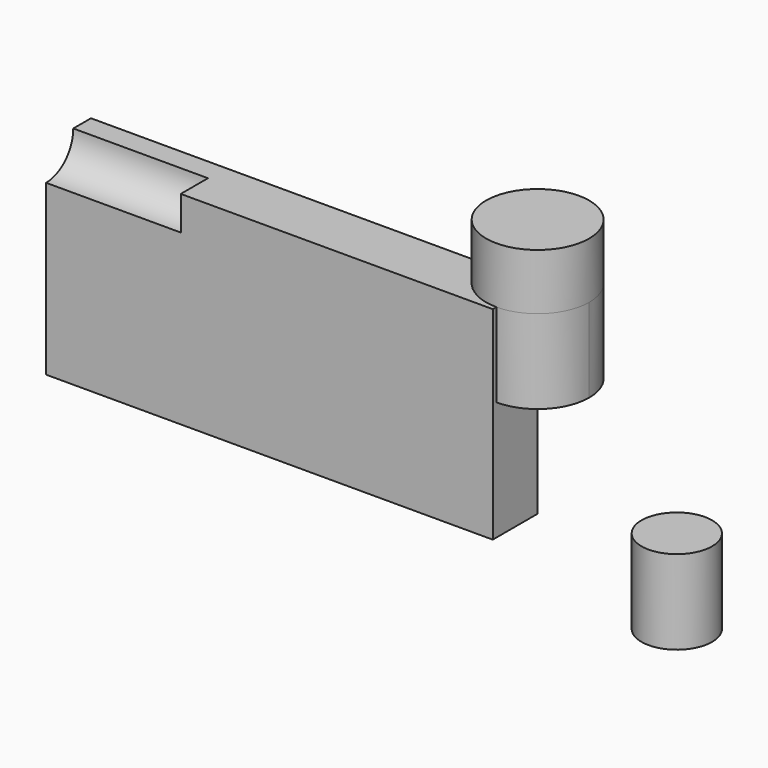
from build123d import *

# Parameters (mm, degrees)
F0_W          = 199
F0_H          = 90.409258
F1_DEPTH      = 25
F3_R          = 15.148431
F4_DEPTH      = 60
F2_R          = 22.972999
F5_DEPTH      = 25
F6_DEPTH      = 25
F6_DEPTH_BACK = 37.4
F7_R          = 15.720814
F8_DEPTH      = 25
F8_DEPTH_BACK = 12.5


with BuildPart() as f1:
    # F0 (on Front) → F1 (new body)
    with BuildSketch(Plane.XZ):
        Rectangle(F0_W, F0_H)
    extrude(amount=F1_DEPTH)

    # F3 (on face) → F4 (cut)
    with BuildSketch(Plane(origin=(-99.5, 0, 0), x_dir=(0, -1, 0), z_dir=(-1, 0, 0))):
        with Locations((25, 45.204629)):
            Circle(F3_R)
    extrude(amount=-F4_DEPTH, mode=Mode.SUBTRACT)

    # F2 (on face) → F5 (join)
    with BuildSketch(Plane.XY.offset(45.204629)):
        with Locations((99.5, 0)):
            Circle(F2_R)
    extrude(amount=F5_DEPTH)

    # F2 (on face) → F6 (join, two sides)
    with BuildSketch(Plane.XY.offset(45.204629)) as f6_sk:
        with Locations((99.5, 0)):
            Circle(F2_R)
    extrude(amount=F6_DEPTH)
    extrude(f6_sk.sketch, amount=-F6_DEPTH_BACK)


with BuildPart() as f8:
    # F7 (on face) → F8 (new body, two sides)
    with BuildSketch(Plane(origin=(0, 0, -45.204629), x_dir=(1, 0, 0), z_dir=(0, 0, -1))) as f8_sk:
        with Locations((99.5, 0)):
            Circle(F7_R)
    extrude(amount=F8_DEPTH)
    extrude(f8_sk.sketch, amount=-F8_DEPTH_BACK)


with BuildPart() as f8_1:
    # F9: moved
    add(f8.part.moved(Location((62, 0, 0))))


solid = Compound([f1.part, f8_1.part])
